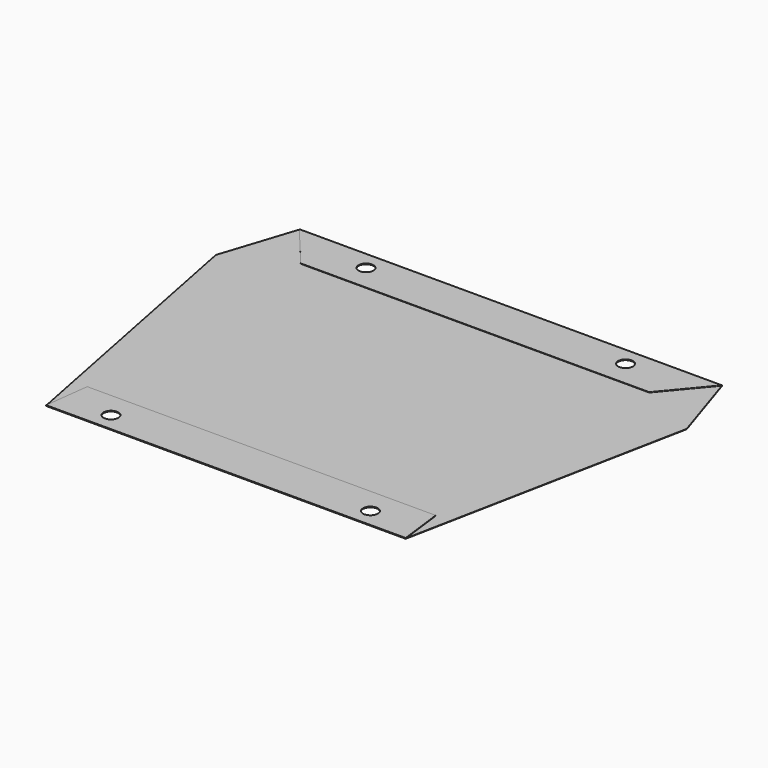
from build123d import *

# Parameters (mm, degrees)
F1_DEPTH = 0.5
F3_DEPTH = 0.5
F4_R     = 10
F5_DEPTH = 1.001


with BuildPart() as f1:
    # F0 (on Top) → F1 (new body)
    with BuildSketch(Plane.XY):
        Polygon((0, 0), (-570, 0), (-602.5, -100), (-527.5, -480), (-42.5, -480), (32.5, -100), align=None)
    extrude(amount=F1_DEPTH)

    # F2 (on face) → F3 (join)
    with BuildSketch(Plane.XY.offset(0.5)):
        Polygon((0, 0), (-570, 0), (-520, -60), (-50, -60), align=None)
        Polygon((-527.5, -480), (-42.5, -480), (-50, -420), (-520, -420), align=None)
    extrude(amount=F3_DEPTH)

    # F4 (on face) → F5 (cut, through all)
    with BuildSketch(Plane.XY.offset(1)):
        with Locations((-460, -25)):
            Circle(F4_R)
        with Locations((-460, -455)):
            Circle(F4_R)
        with Locations((-110, -25)):
            Circle(F4_R)
        with Locations((-110, -455)):
            Circle(F4_R)
    extrude(amount=-F5_DEPTH, mode=Mode.SUBTRACT)


solid = f1.part
